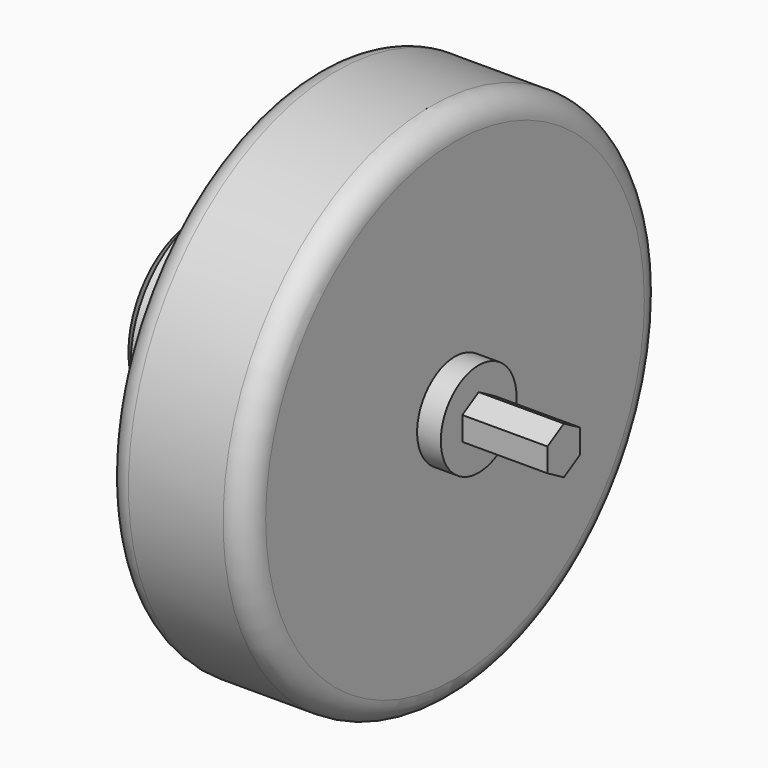
from build123d import *

# Parameters (mm, degrees)
F0_R      = 11
F1_DEPTH  = 3
F2_R      = 1
F3_R      = 9
F4_DEPTH  = 4
F5_R      = 4
F5_R_2    = 2.25
F6_DEPTH  = 9
F7_R      = 2
F8_DEPTH  = 1
F10_DEPTH = 3.6
F11_SIZE  = 0.5


with BuildPart() as f1:
    # F0 (on Right) → F1 (new body, symmetric)
    with BuildSketch(Plane.YZ):
        Circle(F0_R)
    extrude(amount=F1_DEPTH, both=True)

    # F2
    f2_edges = [f1.edges().sort_by_distance(p)[0] for p in [
        (-3, -11, 0),
        (3, -11, 0),
    ]]
    fillet(f2_edges, radius=F2_R)

    # F3 (on face) → F4 (cut)
    with BuildSketch(Plane(origin=(-3, 0, 0), x_dir=(0, -1, 0), z_dir=(-1, 0, 0))):
        Circle(F3_R)
    extrude(amount=-F4_DEPTH, mode=Mode.SUBTRACT)

    # F5 (on face) → F6 (join)
    with BuildSketch(Plane(origin=(1, 0, 0), x_dir=(0, -1, 0), z_dir=(-1, 0, 0))):
        Circle(F5_R)
        Circle(F5_R_2, mode=Mode.SUBTRACT)
    extrude(amount=F6_DEPTH)

    # F7 (on face) → F8 (join)
    with BuildSketch(Plane.YZ.offset(3)):
        Circle(F7_R)
    extrude(amount=F8_DEPTH)

    # F9 (on face) → F10 (join)
    with BuildSketch(Plane.YZ.offset(4)):
        Polygon((0.865, -0.499408), (0.865, 0.499408), (0, 0.998816), (-0.865, 0.499408), (-0.865, -0.499408), (0, -0.998816), align=None)
    extrude(amount=F10_DEPTH)

    # F11
    f11_edges = [f1.edges().sort_by_distance(p)[0] for p in [
        (-8, 4, 0),
    ]]
    chamfer(f11_edges, length=F11_SIZE)


solid = f1.part
